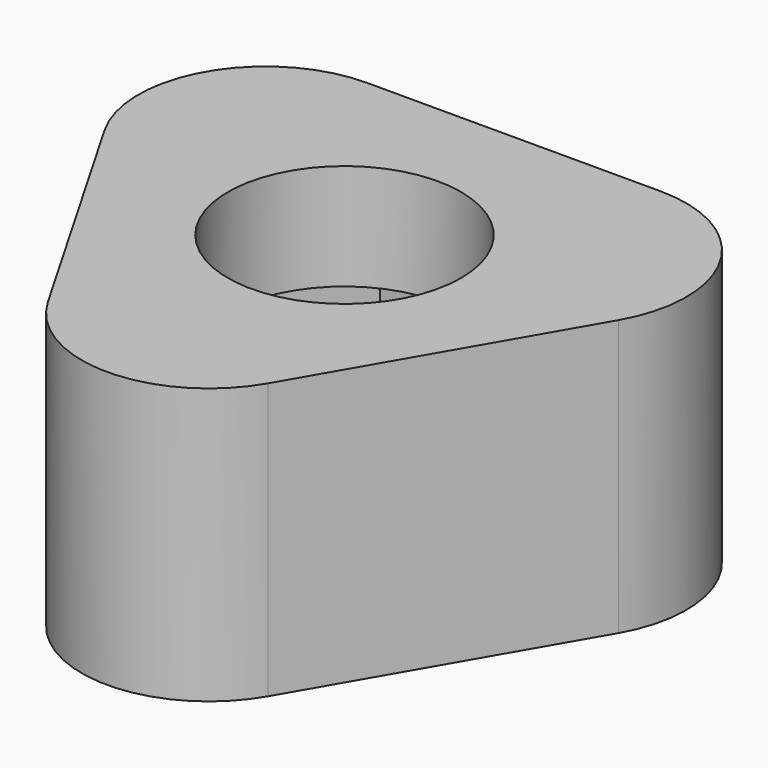
from build123d import *

# Parameters (mm, degrees)
F1_DEPTH = 10.16
F2_R     = 6.985
F3_DEPTH = 6.35
F4_R     = 7.62


with BuildPart() as f1:
    # F0 (on Top) → F1 (new body)
    with BuildSketch(Plane.XY):
        Polygon((21.997045, 12.7), (-21.997045, 12.7), (0, -25.4), align=None)
        Polygon((-11.071846, 0), (-5.535923, 9.5885), (5.535923, 9.5885), (11.071846, 0), (5.535923, -9.5885), (-5.535923, -9.5885), align=None, mode=Mode.SUBTRACT)
    extrude(amount=F1_DEPTH)

    # F2 (on face) → F3 (join)
    with BuildSketch(Plane.XY.offset(10.16)):
        Polygon((21.997045, 12.7), (-21.997045, 12.7), (0, -25.4), align=None)
        Polygon((-5.535923, -9.5885), (-11.071846, 0), (-5.535923, 9.5885), (5.535923, 9.5885), (11.071846, 0), (5.535923, -9.5885), align=None, mode=Mode.SUBTRACT)
        Polygon((-5.535923, 9.5885), (-11.071846, 0), (-5.535923, -9.5885), (5.535923, -9.5885), (11.071846, 0), (5.535923, 9.5885), align=None)
        Circle(F2_R, mode=Mode.SUBTRACT)
    extrude(amount=F3_DEPTH)

    # F4
    f4_edges = [f1.edges().sort_by_distance(p)[0] for p in [
        (-21.997045, 12.7, 8.255),
        (21.997045, 12.7, 8.255),
        (0, -25.4, 8.255),
    ]]
    fillet(f4_edges, radius=F4_R)


solid = f1.part
